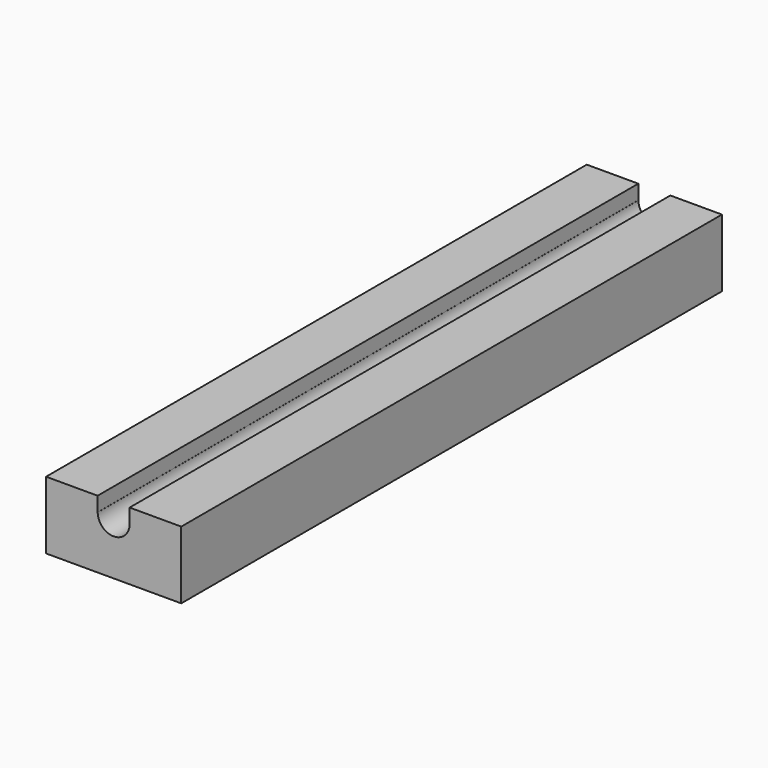
from build123d import *

# Parameters (mm, degrees)
F1_DEPTH = 127


with BuildPart() as f1:
    # F0 (on Front) → F1 (new body)
    with BuildSketch(Plane.XZ):
        with BuildLine():
            Line((3, 60.958375), (3, 58.212375))
            ThreePointArc((3, 58.212375), (0, 55.212375), (-3, 58.212375))
            Line((-3, 58.212375), (-3.014112, 58.212375))
            Line((-3.014112, 58.212375), (-3.014112, 60.958375))
            Line((-3.014112, 60.958375), (-12.7, 60.958375))
            Line((-12.7, 60.958375), (-12.7, 48.258375))
            Line((-12.7, 48.258375), (12.7, 48.258375))
            Line((12.7, 48.258375), (12.7, 60.958375))
            Line((12.7, 60.958375), (3, 60.958375))
        make_face()
    extrude(amount=F1_DEPTH)


solid = f1.part
